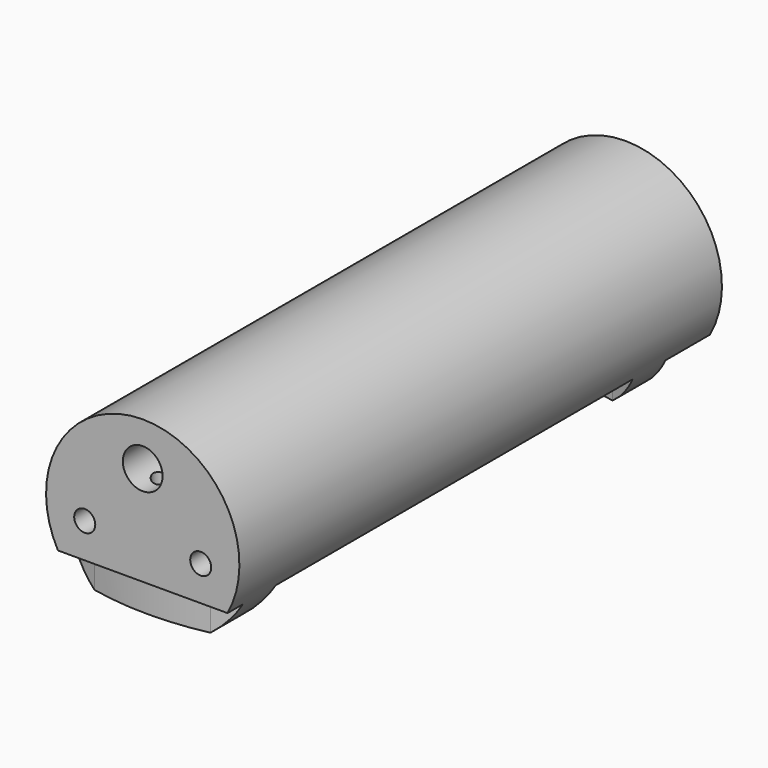
from build123d import *

# Parameters (mm, degrees)
F0_R     = 1.7272
F0_R_2   = 3.2639
F0_R_3   = 2.4003
F1_DEPTH = 99.06
F2_DEPTH = 88.9
F3_DEPTH = 25.4
F4_DEPTH = 99.061
F5_R     = 1.7272
F6_DEPTH = 5.08
F7_DEPTH = 15.24
F5_R_2   = 1.5875
F8_DEPTH = 19.6383854826


with BuildPart() as f1:
    # F0 (on Front) → F1 (new body)
    with BuildSketch(Plane.XZ):
        with BuildLine():
            Line((-9.525, -12.7), (9.525, -12.7))
            ThreePointArc((9.525, -12.7), (0, 15.875), (-9.525, -12.7))
        make_face()
        with Locations((-9.525, -1.905)):
            Circle(F0_R, mode=Mode.SUBTRACT)
        with Locations((9.525, -1.905)):
            Circle(F0_R, mode=Mode.SUBTRACT)
        with Locations((0, 8.7377419695)):
            Circle(F0_R_2, mode=Mode.SUBTRACT)
        with Locations((0, 8.7377419695)):
            Circle(F0_R_2)
        with Locations((0, 8.7377419695)):
            Circle(F0_R_3, mode=Mode.SUBTRACT)
        with Locations((-9.525, -1.905)):
            Circle(F0_R)
        with Locations((9.525, -1.905)):
            Circle(F0_R)
    extrude(amount=-F1_DEPTH)

    # F0 (on Front) → F2 (cut, through all)
    with BuildSketch(Plane.XZ):
        with Locations((0, 8.7377419695)):
            Circle(F0_R_2)
        with Locations((0, 8.7377419695)):
            Circle(F0_R_3, mode=Mode.SUBTRACT)
    extrude(amount=-F2_DEPTH, mode=Mode.SUBTRACT)

    # F0 (on Front) → F3 (cut)
    with BuildSketch(Plane.XZ):
        with Locations((-9.525, -1.905)):
            Circle(F0_R)
        with Locations((9.525, -1.905)):
            Circle(F0_R)
    extrude(amount=-F3_DEPTH, mode=Mode.SUBTRACT)

    # F0 (on Front) → F4 (cut, through all)
    with BuildSketch(Plane.XZ):
        with Locations((0, 8.7377419695)):
            Circle(F0_R_3)
    extrude(amount=-F4_DEPTH, mode=Mode.SUBTRACT)

    # F5 (on face) → F6 (cut)
    with BuildSketch(Plane(origin=(0, 0, -12.7), x_dir=(1, 0, 0), z_dir=(0, 0, -1))):
        with BuildLine():
            Line((-9.525, -84.5499397641), (-9.525, -8.5156602359))
            ThreePointArc((-9.525, -8.5156602359), (-17.1876576863, -11.3104638467), (-24.1058971733, -15.6307893484))
            Line((-24.1058971733, -15.6307893484), (-24.1058971733, -77.4348106516))
            ThreePointArc((-24.1058971733, -77.4348106516), (-17.1876576863, -81.7551361533), (-9.525, -84.5499397641))
        make_face()
        with BuildLine():
            Line((9.525, -84.5499397641), (9.525, -8.5156602359))
            ThreePointArc((9.525, -8.5156602359), (0, -7.3406), (-9.525, -8.5156602359))
            Line((-9.525, -8.5156602359), (-9.525, -84.5499397641))
            ThreePointArc((-9.525, -84.5499397641), (0, -85.725), (9.525, -84.5499397641))
        make_face()
        with Locations((0, -46.5328)):
            Circle(F5_R, mode=Mode.SUBTRACT)
        with BuildLine():
            ThreePointArc((19.2613247782, -12.4002655405), (14.5236243119, -10.1309748028), (9.525, -8.5156602359))
            Line((9.525, -8.5156602359), (9.525, -84.5499397641))
            ThreePointArc((9.525, -84.5499397641), (14.5236243119, -82.9346251972), (19.2613247782, -80.6653344595))
            Line((19.2613247782, -80.6653344595), (19.2613247782, -12.4002655405))
        make_face()
        with BuildLine():
            ThreePointArc((19.2613247782, -87.8013515693), (14.4855288925, -89.7098938525), (9.525, -91.067801469))
            Line((9.525, -91.067801469), (9.525, -99.06))
            Line((9.525, -99.06), (19.2613247782, -99.06))
            Line((19.2613247782, -99.06), (19.2613247782, -87.8013515693))
        make_face()
        with BuildLine():
            Line((9.525, -99.06), (9.525, -91.067801469))
            ThreePointArc((9.525, -91.067801469), (0, -92.075), (-9.525, -91.067801469))
            Line((-9.525, -91.067801469), (-9.525, -99.06))
            Line((-9.525, -99.06), (9.525, -99.06))
        make_face()
        with BuildLine():
            Line((-9.525, -99.06), (-9.525, -91.067801469))
            ThreePointArc((-9.525, -91.067801469), (-17.0718789618, -88.7541563206), (-24.1058971733, -85.1721284402))
            Line((-24.1058971733, -85.1721284402), (-24.1058971733, -99.06))
            Line((-24.1058971733, -99.06), (-9.525, -99.06))
        make_face()
        with BuildLine():
            Line((9.525, 0), (9.525, -1.997798531))
            ThreePointArc((9.525, -1.997798531), (14.4855288925, -3.3557061475), (19.2613247782, -5.2642484307))
            Line((19.2613247782, -5.2642484307), (19.2613247782, 0))
            Line((19.2613247782, 0), (9.525, 0))
        make_face()
        with BuildLine():
            ThreePointArc((-9.525, -1.997798531), (0, -0.9906), (9.525, -1.997798531))
            Line((9.525, -1.997798531), (9.525, 0))
            Line((9.525, 0), (-9.525, 0))
            Line((-9.525, 0), (-9.525, -1.997798531))
        make_face()
        with BuildLine():
            ThreePointArc((-24.1058971733, -7.8934715598), (-17.0718789618, -4.3114436794), (-9.525, -1.997798531))
            Line((-9.525, -1.997798531), (-9.525, 0))
            Line((-9.525, 0), (-24.1058971733, 0))
            Line((-24.1058971733, 0), (-24.1058971733, -7.8934715598))
        make_face()
    extrude(amount=-F6_DEPTH, mode=Mode.SUBTRACT)

    # F5 (on face) → F7 (cut)
    with BuildSketch(Plane(origin=(0, 0, -12.7), x_dir=(1, 0, 0), z_dir=(0, 0, -1))):
        with Locations((0, -46.5328)):
            Circle(F5_R)
    extrude(amount=-F7_DEPTH, mode=Mode.SUBTRACT)

    # F5 (on face) → F8 (cut, through all)
    with BuildSketch(Plane(origin=(0, 0, -12.7), x_dir=(1, 0, 0), z_dir=(0, 0, -1))):
        with Locations((0, -88.9)):
            Circle(F5_R_2)
        with Locations((0, -4.1656)):
            Circle(F5_R_2)
    extrude(amount=-F8_DEPTH, mode=Mode.SUBTRACT)


solid = f1.part
